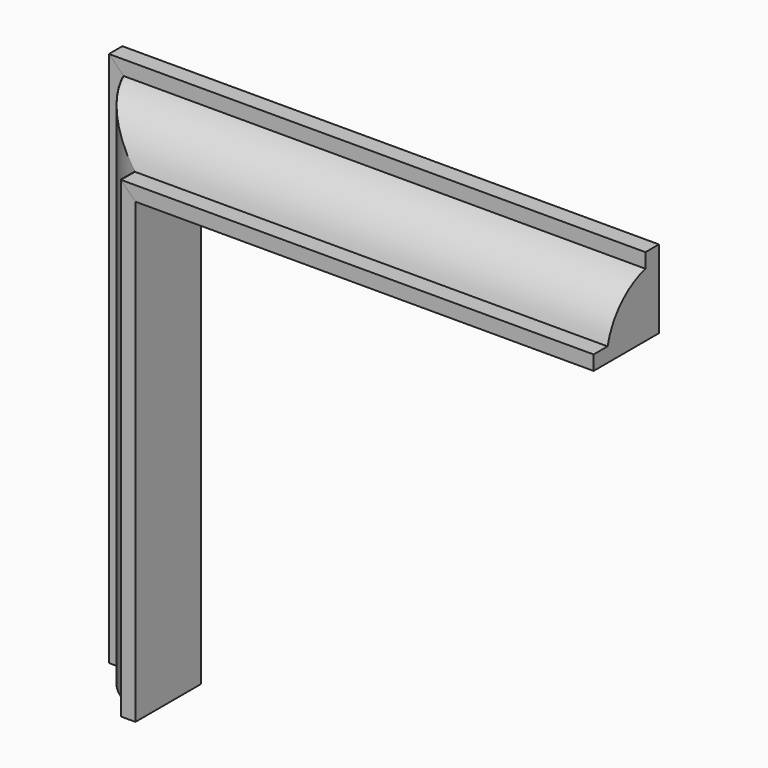
from build123d import *

# Parameters (mm, degrees)
F1_DEPTH = 609.6
F3_DEPTH = 92.819936
F6_DEPTH = 609.6
F9_DEPTH = 101.6


with BuildPart() as f1:
    # F0 (on Right) → F1 (new body)
    with BuildSketch(Plane.YZ):
        with BuildLine():
            Line((-19.158843, 88.9), (-19.158843, 72.294541))
            ThreePointArc((-19.158843, 72.294541), (-53.845949, 51.905449), (-72.948752, 16.49368))
            Line((-72.948752, 16.49368), (-92.818936, 16.517246))
            Line((-92.818936, 16.517246), (-92.818936, 0))
            Line((-92.818936, 0), (0, 0))
            Line((0, 0), (0, 88.9))
            Line((0, 88.9), (-19.158843, 88.9))
        make_face()
    extrude(amount=F1_DEPTH)

    # F2 (on Front) → F3 (cut, through all)
    with BuildSketch(Plane.XZ):
        Polygon((88.9, 0), (0, 88.9), (0, 0), align=None)
    extrude(amount=F3_DEPTH, mode=Mode.SUBTRACT)


with BuildPart() as f6:
    # F5 (on offset) → F6 (new body)
    with BuildSketch(Plane.XY.offset(88.9)):
        with BuildLine():
            Line((-0.246732, -18.921724), (16.358727, -18.921724))
            ThreePointArc((16.358727, -18.921724), (36.747819, -53.608831), (72.159588, -72.711633))
            Line((72.159588, -72.711633), (72.136022, -92.581817))
            Line((72.136022, -92.581817), (88.653268, -92.581817))
            Line((88.653268, -92.581817), (88.653268, 0.237119))
            Line((88.653268, 0.237119), (-0.246732, 0.237119))
            Line((-0.246732, 0.237119), (-0.246732, -18.921724))
        make_face()
    extrude(amount=-F6_DEPTH)

    # F8 (on Front) → F9 (cut, symmetric)
    with BuildSketch(Plane.XZ):
        Polygon((88.9, 88.9), (0, 88.9), (88.9, 0), align=None)
    extrude(amount=F9_DEPTH, both=True, mode=Mode.SUBTRACT)


with BuildPart() as f1_1:
    # F7: moved
    add(f1.part.moved(Location((175.26, 0, 0))))


with BuildPart() as f1_2:
    # F10: moved
    add(f1_1.part.moved(Location((-175.26, 0, 0))))


solid = Compound([f6.part, f1_2.part])
